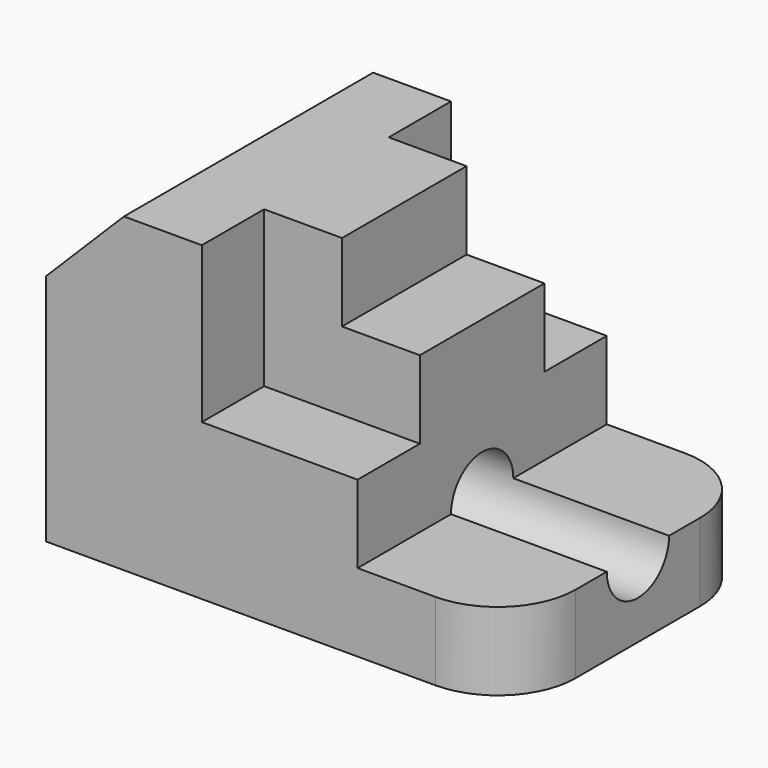
from build123d import *

# Parameters (mm, degrees)
F1_DEPTH = 25.4
F2_W     = 25.4
F2_H     = 12.7
F3_DEPTH = 25.4
F4_R     = 6.35
F5_DEPTH = 76.201
F6_R     = 12.7


with BuildPart() as f1:
    # F0 (on Front) → F1 (new body, symmetric)
    with BuildSketch(Plane.XZ):
        Polygon((0, 38.1), (0, 0), (76.2, 0), (76.2, 12.7), (50.8, 12.7), (50.8, 25.4), (25.4, 25.4), (25.4, 50.8), (12.7, 50.8), align=None)
        Polygon((38.1, 50.8), (25.4, 50.8), (25.4, 25.4), (50.8, 25.4), (50.8, 38.1), (38.1, 38.1), align=None)
    extrude(amount=F1_DEPTH, both=True)

    # F2 (on face) → F3 (cut)
    with BuildSketch(Plane.XY.offset(50.8)):
        with Locations((38.1, 19.05)):
            Rectangle(F2_W, F2_H)
        with Locations((38.1, -19.05)):
            Rectangle(F2_W, F2_H)
    extrude(amount=-F3_DEPTH, mode=Mode.SUBTRACT)

    # F4 (on face) → F5 (cut, through all)
    with BuildSketch(Plane.YZ.offset(76.2)):
        with Locations((0, 12.7)):
            Circle(F4_R)
    extrude(amount=-F5_DEPTH, mode=Mode.SUBTRACT)

    # F6
    f6_edges = [f1.edges().sort_by_distance(p)[0] for p in [
        (76.2, -25.4, 6.35),
        (76.2, 25.4, 6.35),
    ]]
    fillet(f6_edges, radius=F6_R)


solid = f1.part
